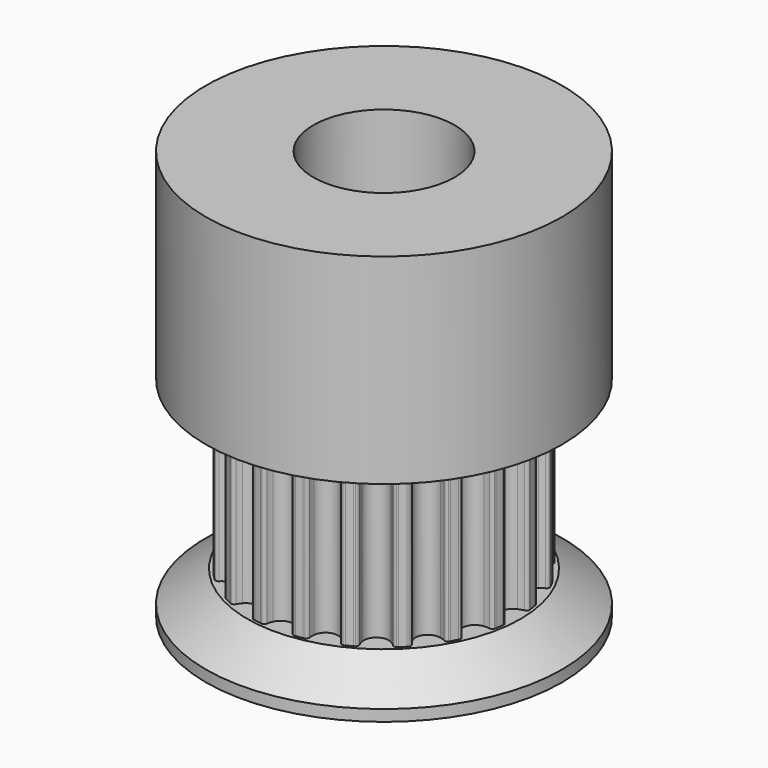
from build123d import *

# Parameters (mm, degrees)
F1_DEPTH  = 7.5
F2_R      = 8
F3_DEPTH  = 9
F4_R      = 8
F5_DEPTH  = 1.5
F6_R      = 2.5
F7_DEPTH  = 18.001
F8_R      = 1.5
F9_DEPTH  = 8.001
F10_R     = 3.175
F11_DEPTH = 25.4
F12_R     = 8
F13_DEPTH = 1.5


with BuildPart() as f1:
    # F0 (on Top) → F1 (new body)
    with BuildSketch(Plane.XY):
        with BuildLine():
            ThreePointArc((-0.5137469529, -5.5950260293), (0, -5.25), (0.5137469529, -5.5950260293))
            ThreePointArc((0.5137469529, -5.5950260293), (0.5592692601, -5.7125893356), (0.5896381917, -5.8349459432))
            ThreePointArc((0.5896381917, -5.8349459432), (0.634011817, -5.9169199806), (0.718236871, -5.9568562008))
            ThreePointArc((0.718236871, -5.9568562008), (0.7555100891, -5.952243653), (0.7927537045, -5.9473978818))
            ThreePointArc((0.7927537045, -5.9473978818), (0.9386067902, -5.9261300436), (1.0838934413, -5.9012858775))
            ThreePointArc((1.0838934413, -5.9012858775), (1.1208116501, -5.8943855698), (1.1576859427, -5.8872543055))
            ThreePointArc((1.1576859427, -5.8872543055), (1.2254477584, -5.82324573), (1.2423182132, -5.7315715833))
            ThreePointArc((1.2423182132, -5.7315715833), (1.2333905124, -5.6058190183), (1.2403557397, -5.4799425032))
            ThreePointArc((1.2403557397, -5.4799425032), (1.6223392205, -4.9930467105), (2.2175605143, -5.1624294247))
            ThreePointArc((2.2175605143, -5.1624294247), (2.2971838607, -5.2601716067), (2.3638767022, -5.3671551397))
            ThreePointArc((2.3638767022, -5.3671551397), (2.4314098983, -5.4314048778), (2.5238536555, -5.4433595073))
            ThreePointArc((2.5238536555, -5.4433595073), (2.5578772368, -5.4274546558), (2.5918005942, -5.4113371434))
            ThreePointArc((2.5918005942, -5.4113371434), (2.7239429984, -5.3460391451), (2.8544415451, -5.2775148949))
            ThreePointArc((2.8544415451, -5.2775148949), (2.8874205358, -5.2595439583), (2.9202863902, -5.2413669399))
            ThreePointArc((2.9202863902, -5.2413669399), (2.964951969, -5.1595516144), (2.9526678557, -5.0671510626))
            ThreePointArc((2.9526678557, -5.0671510626), (2.905317428, -4.9503120775), (2.8730437705, -4.828444024))
            ThreePointArc((2.8730437705, -4.828444024), (3.0858725745, -4.2473392205), (3.7043038019, -4.2244982593))
            ThreePointArc((3.7043038019, -4.2244982593), (3.8102340997, -4.2928516312), (3.906722491, -4.373989796))
            ThreePointArc((3.906722491, -4.373989796), (3.9908046381, -4.4142260228), (4.0824180595, -4.3970288591))
            ThreePointArc((4.0824180595, -4.3970288591), (4.1098615388, -4.3713885816), (4.1371439837, -4.3455770225))
            ThreePointArc((4.1371439837, -4.3455770225), (4.2426406871, -4.2426406871), (4.3455770225, -4.1371439837))
            ThreePointArc((4.3455770225, -4.1371439837), (4.3713885816, -4.1098615388), (4.3970288591, -4.0824180595))
            ThreePointArc((4.3970288591, -4.0824180595), (4.4142260228, -3.9908046381), (4.373989796, -3.906722491))
            ThreePointArc((4.373989796, -3.906722491), (4.2928516312, -3.8102340997), (4.2244982593, -3.7043038019))
            ThreePointArc((4.2244982593, -3.7043038019), (4.2473392205, -3.0858725745), (4.828444024, -2.8730437705))
            ThreePointArc((4.828444024, -2.8730437705), (4.9503120775, -2.905317428), (5.0671510626, -2.9526678557))
            ThreePointArc((5.0671510626, -2.9526678557), (5.1595516144, -2.964951969), (5.2413669399, -2.9202863902))
            ThreePointArc((5.2413669399, -2.9202863902), (5.2595439583, -2.8874205358), (5.2775148949, -2.8544415451))
            ThreePointArc((5.2775148949, -2.8544415451), (5.3460391451, -2.7239429984), (5.4113371434, -2.5918005942))
            ThreePointArc((5.4113371434, -2.5918005942), (5.4432427829, -2.4673716464), (5.3671551397, -2.3638767022))
            ThreePointArc((5.3671551397, -2.3638767022), (5.2601716067, -2.2971838607), (5.1624294247, -2.2175605143))
            ThreePointArc((5.1624294247, -2.2175605143), (4.9930467105, -1.6223392205), (5.4799425032, -1.2403557397))
            ThreePointArc((5.4799425032, -1.2403557397), (5.6058190183, -1.2333905124), (5.7315715833, -1.2423182132))
            ThreePointArc((5.7315715833, -1.2423182132), (5.82324573, -1.2254477584), (5.8872543055, -1.1576859427))
            ThreePointArc((5.8872543055, -1.1576859427), (5.8943855698, -1.1208116501), (5.9012858775, -1.0838934413))
            ThreePointArc((5.9012858775, -1.0838934413), (5.9261300436, -0.9386067902), (5.9473978818, -0.7927537045))
            ThreePointArc((5.9473978818, -0.7927537045), (5.952243653, -0.7555100891), (5.9568562008, -0.718236871))
            ThreePointArc((5.9568562008, -0.718236871), (5.9169199806, -0.634011817), (5.8349459432, -0.5896381917))
            ThreePointArc((5.8349459432, -0.5896381917), (5.7125893356, -0.5592692601), (5.5950260293, -0.5137469529))
            ThreePointArc((5.5950260293, -0.5137469529), (5.25, 0), (5.5950260293, 0.5137469529))
            ThreePointArc((5.5950260293, 0.5137469529), (5.7125893356, 0.5592692601), (5.8349459432, 0.5896381917))
            ThreePointArc((5.8349459432, 0.5896381917), (5.9169199806, 0.634011817), (5.9568562008, 0.718236871))
            ThreePointArc((5.9568562008, 0.718236871), (5.952243653, 0.7555100891), (5.9473978818, 0.7927537045))
            ThreePointArc((5.9473978818, 0.7927537045), (5.9261300436, 0.9386067902), (5.9012858775, 1.0838934413))
            ThreePointArc((5.9012858775, 1.0838934413), (5.8943855698, 1.1208116501), (5.8872543055, 1.1576859427))
            ThreePointArc((5.8872543055, 1.1576859427), (5.82324573, 1.2254477584), (5.7315715833, 1.2423182132))
            ThreePointArc((5.7315715833, 1.2423182132), (5.6058190183, 1.2333905124), (5.4799425032, 1.2403557397))
            ThreePointArc((5.4799425032, 1.2403557397), (4.9930467105, 1.6223392205), (5.1624294247, 2.2175605143))
            ThreePointArc((5.1624294247, 2.2175605143), (5.2601716067, 2.2971838607), (5.3671551397, 2.3638767022))
            ThreePointArc((5.3671551397, 2.3638767022), (5.4314048778, 2.4314098983), (5.4433595073, 2.5238536555))
            ThreePointArc((5.4433595073, 2.5238536555), (5.4274546558, 2.5578772368), (5.4113371434, 2.5918005942))
            ThreePointArc((5.4113371434, 2.5918005942), (5.3460391451, 2.7239429984), (5.2775148949, 2.8544415451))
            ThreePointArc((5.2775148949, 2.8544415451), (5.2595439583, 2.8874205358), (5.2413669399, 2.9202863902))
            ThreePointArc((5.2413669399, 2.9202863902), (5.1595516144, 2.964951969), (5.0671510626, 2.9526678557))
            ThreePointArc((5.0671510626, 2.9526678557), (4.9503120775, 2.905317428), (4.828444024, 2.8730437705))
            ThreePointArc((4.828444024, 2.8730437705), (4.2473392205, 3.0858725745), (4.2244982593, 3.7043038019))
            ThreePointArc((4.2244982593, 3.7043038019), (4.2928516312, 3.8102340997), (4.373989796, 3.906722491))
            ThreePointArc((4.373989796, 3.906722491), (4.4142260228, 3.9908046381), (4.3970288591, 4.0824180595))
            ThreePointArc((4.3970288591, 4.0824180595), (4.3713885816, 4.1098615388), (4.3455770225, 4.1371439837))
            ThreePointArc((4.3455770225, 4.1371439837), (4.2426406871, 4.2426406871), (4.1371439837, 4.3455770225))
            ThreePointArc((4.1371439837, 4.3455770225), (4.1098615388, 4.3713885816), (4.0824180595, 4.3970288591))
            ThreePointArc((4.0824180595, 4.3970288591), (3.9908046381, 4.4142260228), (3.906722491, 4.373989796))
            ThreePointArc((3.906722491, 4.373989796), (3.8102340997, 4.2928516312), (3.7043038019, 4.2244982593))
            ThreePointArc((3.7043038019, 4.2244982593), (3.0858725745, 4.2473392205), (2.8730437705, 4.828444024))
            ThreePointArc((2.8730437705, 4.828444024), (2.905317428, 4.9503120775), (2.9526678557, 5.0671510626))
            ThreePointArc((2.9526678557, 5.0671510626), (2.964951969, 5.1595516144), (2.9202863902, 5.2413669399))
            ThreePointArc((2.9202863902, 5.2413669399), (2.8874205358, 5.2595439583), (2.8544415451, 5.2775148949))
            ThreePointArc((2.8544415451, 5.2775148949), (2.7239429984, 5.3460391451), (2.5918005942, 5.4113371434))
            ThreePointArc((2.5918005942, 5.4113371434), (2.5578772368, 5.4274546558), (2.5238536555, 5.4433595073))
            ThreePointArc((2.5238536555, 5.4433595073), (2.4314098983, 5.4314048778), (2.3638767022, 5.3671551397))
            ThreePointArc((2.3638767022, 5.3671551397), (2.2971838607, 5.2601716067), (2.2175605143, 5.1624294247))
            ThreePointArc((2.2175605143, 5.1624294247), (1.6223392205, 4.9930467105), (1.2403557397, 5.4799425032))
            ThreePointArc((1.2403557397, 5.4799425032), (1.2333905124, 5.6058190183), (1.2423182132, 5.7315715833))
            ThreePointArc((1.2423182132, 5.7315715833), (1.2254477584, 5.82324573), (1.1576859427, 5.8872543055))
            ThreePointArc((1.1576859427, 5.8872543055), (1.1208116501, 5.8943855698), (1.0838934413, 5.9012858775))
            ThreePointArc((1.0838934413, 5.9012858775), (0.9386067902, 5.9261300436), (0.7927537045, 5.9473978818))
            ThreePointArc((0.7927537045, 5.9473978818), (0.7555100891, 5.952243653), (0.718236871, 5.9568562008))
            ThreePointArc((0.718236871, 5.9568562008), (0.634011817, 5.9169199806), (0.5896381917, 5.8349459432))
            ThreePointArc((0.5896381917, 5.8349459432), (0.5592692601, 5.7125893356), (0.5137469529, 5.5950260293))
            ThreePointArc((0.5137469529, 5.5950260293), (0, 5.25), (-0.5137469529, 5.5950260293))
            ThreePointArc((-0.5137469529, 5.5950260293), (-0.5592692601, 5.7125893356), (-0.5896381917, 5.8349459432))
            ThreePointArc((-0.5896381917, 5.8349459432), (-0.634011817, 5.9169199806), (-0.718236871, 5.9568562008))
            ThreePointArc((-0.718236871, 5.9568562008), (-0.7555100891, 5.952243653), (-0.7927537045, 5.9473978818))
            ThreePointArc((-0.7927537045, 5.9473978818), (-0.9386067902, 5.9261300436), (-1.0838934413, 5.9012858775))
            ThreePointArc((-1.0838934413, 5.9012858775), (-1.1208116501, 5.8943855698), (-1.1576859427, 5.8872543055))
            ThreePointArc((-1.1576859427, 5.8872543055), (-1.2254477584, 5.82324573), (-1.2423182132, 5.7315715833))
            ThreePointArc((-1.2423182132, 5.7315715833), (-1.2333905124, 5.6058190183), (-1.2403557397, 5.4799425032))
            ThreePointArc((-1.2403557397, 5.4799425032), (-1.6223392205, 4.9930467105), (-2.2175605143, 5.1624294247))
            ThreePointArc((-2.2175605143, 5.1624294247), (-2.2971838607, 5.2601716067), (-2.3638767022, 5.3671551397))
            ThreePointArc((-2.3638767022, 5.3671551397), (-2.4314098983, 5.4314048778), (-2.5238536555, 5.4433595073))
            ThreePointArc((-2.5238536555, 5.4433595073), (-2.5578772368, 5.4274546558), (-2.5918005942, 5.4113371434))
            ThreePointArc((-2.5918005942, 5.4113371434), (-2.7239429984, 5.3460391451), (-2.8544415451, 5.2775148949))
            ThreePointArc((-2.8544415451, 5.2775148949), (-2.8874205358, 5.2595439583), (-2.9202863902, 5.2413669399))
            ThreePointArc((-2.9202863902, 5.2413669399), (-2.964951969, 5.1595516144), (-2.9526678557, 5.0671510626))
            ThreePointArc((-2.9526678557, 5.0671510626), (-2.905317428, 4.9503120775), (-2.8730437705, 4.828444024))
            ThreePointArc((-2.8730437705, 4.828444024), (-3.0858725745, 4.2473392205), (-3.7043038019, 4.2244982593))
            ThreePointArc((-3.7043038019, 4.2244982593), (-3.8102340997, 4.2928516312), (-3.906722491, 4.373989796))
            ThreePointArc((-3.906722491, 4.373989796), (-3.9908046381, 4.4142260228), (-4.0824180595, 4.3970288591))
            ThreePointArc((-4.0824180595, 4.3970288591), (-4.1098615388, 4.3713885816), (-4.1371439837, 4.3455770225))
            ThreePointArc((-4.1371439837, 4.3455770225), (-4.2426406871, 4.2426406871), (-4.3455770225, 4.1371439837))
            ThreePointArc((-4.3455770225, 4.1371439837), (-4.3713885816, 4.1098615388), (-4.3970288591, 4.0824180595))
            ThreePointArc((-4.3970288591, 4.0824180595), (-4.4142260228, 3.9908046381), (-4.373989796, 3.906722491))
            ThreePointArc((-4.373989796, 3.906722491), (-4.2928516312, 3.8102340997), (-4.2244982593, 3.7043038019))
            ThreePointArc((-4.2244982593, 3.7043038019), (-4.2473392205, 3.0858725745), (-4.828444024, 2.8730437705))
            ThreePointArc((-4.828444024, 2.8730437705), (-4.9503120775, 2.905317428), (-5.0671510626, 2.9526678557))
            ThreePointArc((-5.0671510626, 2.9526678557), (-5.1595516144, 2.964951969), (-5.2413669399, 2.9202863902))
            ThreePointArc((-5.2413669399, 2.9202863902), (-5.2595439583, 2.8874205358), (-5.2775148949, 2.8544415451))
            ThreePointArc((-5.2775148949, 2.8544415451), (-5.3460391451, 2.7239429984), (-5.4113371434, 2.5918005942))
            ThreePointArc((-5.4113371434, 2.5918005942), (-5.4274546558, 2.5578772368), (-5.4433595073, 2.5238536555))
            ThreePointArc((-5.4433595073, 2.5238536555), (-5.4314048778, 2.4314098983), (-5.3671551397, 2.3638767022))
            ThreePointArc((-5.3671551397, 2.3638767022), (-5.2601716067, 2.2971838607), (-5.1624294247, 2.2175605143))
            ThreePointArc((-5.1624294247, 2.2175605143), (-4.9930467105, 1.6223392205), (-5.4799425032, 1.2403557397))
            ThreePointArc((-5.4799425032, 1.2403557397), (-5.6058190183, 1.2333905124), (-5.7315715833, 1.2423182132))
            ThreePointArc((-5.7315715833, 1.2423182132), (-5.82324573, 1.2254477584), (-5.8872543055, 1.1576859427))
            ThreePointArc((-5.8872543055, 1.1576859427), (-5.8943855698, 1.1208116501), (-5.9012858775, 1.0838934413))
            ThreePointArc((-5.9012858775, 1.0838934413), (-5.9261300436, 0.9386067902), (-5.9473978818, 0.7927537045))
            ThreePointArc((-5.9473978818, 0.7927537045), (-5.952243653, 0.7555100891), (-5.9568562008, 0.718236871))
            ThreePointArc((-5.9568562008, 0.718236871), (-5.9169199806, 0.634011817), (-5.8349459432, 0.5896381917))
            ThreePointArc((-5.8349459432, 0.5896381917), (-5.7125893356, 0.5592692601), (-5.5950260293, 0.5137469529))
            ThreePointArc((-5.5950260293, 0.5137469529), (-5.25, 0), (-5.5950260293, -0.5137469529))
            ThreePointArc((-5.5950260293, -0.5137469529), (-5.7125893356, -0.5592692601), (-5.8349459432, -0.5896381917))
            ThreePointArc((-5.8349459432, -0.5896381917), (-5.9169199806, -0.634011817), (-5.9568562008, -0.718236871))
            ThreePointArc((-5.9568562008, -0.718236871), (-5.952243653, -0.7555100891), (-5.9473978818, -0.7927537045))
            ThreePointArc((-5.9473978818, -0.7927537045), (-5.9261300436, -0.9386067902), (-5.9012858775, -1.0838934413))
            ThreePointArc((-5.9012858775, -1.0838934413), (-5.8943855698, -1.1208116501), (-5.8872543055, -1.1576859427))
            ThreePointArc((-5.8872543055, -1.1576859427), (-5.82324573, -1.2254477584), (-5.7315715833, -1.2423182132))
            ThreePointArc((-5.7315715833, -1.2423182132), (-5.6058190183, -1.2333905124), (-5.4799425032, -1.2403557397))
            ThreePointArc((-5.4799425032, -1.2403557397), (-4.9930467105, -1.6223392205), (-5.1624294247, -2.2175605143))
            ThreePointArc((-5.1624294247, -2.2175605143), (-5.2601716067, -2.2971838607), (-5.3671551397, -2.3638767022))
            ThreePointArc((-5.3671551397, -2.3638767022), (-5.4314048778, -2.4314098983), (-5.4433595073, -2.5238536555))
            ThreePointArc((-5.4433595073, -2.5238536555), (-5.4274546558, -2.5578772368), (-5.4113371434, -2.5918005942))
            ThreePointArc((-5.4113371434, -2.5918005942), (-5.3460391451, -2.7239429984), (-5.2775148949, -2.8544415451))
            ThreePointArc((-5.2775148949, -2.8544415451), (-5.2595439583, -2.8874205358), (-5.2413669399, -2.9202863902))
            ThreePointArc((-5.2413669399, -2.9202863902), (-5.1595516144, -2.964951969), (-5.0671510626, -2.9526678557))
            ThreePointArc((-5.0671510626, -2.9526678557), (-4.9503120775, -2.905317428), (-4.828444024, -2.8730437705))
            ThreePointArc((-4.828444024, -2.8730437705), (-4.2473392205, -3.0858725745), (-4.2244982593, -3.7043038019))
            ThreePointArc((-4.2244982593, -3.7043038019), (-4.2928516312, -3.8102340997), (-4.373989796, -3.906722491))
            ThreePointArc((-4.373989796, -3.906722491), (-4.4142260228, -3.9908046381), (-4.3970288591, -4.0824180595))
            ThreePointArc((-4.3970288591, -4.0824180595), (-4.3713885816, -4.1098615388), (-4.3455770225, -4.1371439837))
            ThreePointArc((-4.3455770225, -4.1371439837), (-4.2426406871, -4.2426406871), (-4.1371439837, -4.3455770225))
            ThreePointArc((-4.1371439837, -4.3455770225), (-4.1098615388, -4.3713885816), (-4.0824180595, -4.3970288591))
            ThreePointArc((-4.0824180595, -4.3970288591), (-3.9908046381, -4.4142260228), (-3.906722491, -4.373989796))
            ThreePointArc((-3.906722491, -4.373989796), (-3.8102340997, -4.2928516312), (-3.7043038019, -4.2244982593))
            ThreePointArc((-3.7043038019, -4.2244982593), (-3.0858725745, -4.2473392205), (-2.8730437705, -4.828444024))
            ThreePointArc((-2.8730437705, -4.828444024), (-2.905317428, -4.9503120775), (-2.9526678557, -5.0671510626))
            ThreePointArc((-2.9526678557, -5.0671510626), (-2.964951969, -5.1595516144), (-2.9202863902, -5.2413669399))
            ThreePointArc((-2.9202863902, -5.2413669399), (-2.8874205358, -5.2595439583), (-2.8544415451, -5.2775148949))
            ThreePointArc((-2.8544415451, -5.2775148949), (-2.7239429984, -5.3460391451), (-2.5918005942, -5.4113371434))
            ThreePointArc((-2.5918005942, -5.4113371434), (-2.5578772368, -5.4274546558), (-2.5238536555, -5.4433595073))
            ThreePointArc((-2.5238536555, -5.4433595073), (-2.4314098983, -5.4314048778), (-2.3638767022, -5.3671551397))
            ThreePointArc((-2.3638767022, -5.3671551397), (-2.2971838607, -5.2601716067), (-2.2175605143, -5.1624294247))
            ThreePointArc((-2.2175605143, -5.1624294247), (-1.6223392205, -4.9930467105), (-1.2403557397, -5.4799425032))
            ThreePointArc((-1.2403557397, -5.4799425032), (-1.2333905124, -5.6058190183), (-1.2423182132, -5.7315715833))
            ThreePointArc((-1.2423182132, -5.7315715833), (-1.2254477584, -5.82324573), (-1.1576859427, -5.8872543055))
            ThreePointArc((-1.1576859427, -5.8872543055), (-1.1208116501, -5.8943855698), (-1.0838934413, -5.9012858775))
            ThreePointArc((-1.0838934413, -5.9012858775), (-0.9386067902, -5.9261300436), (-0.7927537045, -5.9473978818))
            ThreePointArc((-0.7927537045, -5.9473978818), (-0.7555100891, -5.952243653), (-0.718236871, -5.9568562008))
            ThreePointArc((-0.718236871, -5.9568562008), (-0.634011817, -5.9169199806), (-0.5896381917, -5.8349459432))
            ThreePointArc((-0.5896381917, -5.8349459432), (-0.5592692601, -5.7125893356), (-0.5137469529, -5.5950260293))
        make_face()
    extrude(amount=F1_DEPTH)

    # F2 (on face) → F3 (join)
    with BuildSketch(Plane.XY.offset(7.5)):
        Circle(F2_R)
    extrude(amount=F3_DEPTH)

    # F4 (on face) → F5 (join)
    with BuildSketch(Plane(origin=(0, 0, 0), x_dir=(1, 0, 0), z_dir=(0, 0, -1))):
        Circle(F4_R)
    extrude(amount=F5_DEPTH)

    # F6 (on face) → F7 (cut, through all)
    with BuildSketch(Plane(origin=(0, 0, -1.5), x_dir=(1, 0, 0), z_dir=(0, 0, -1))):
        Circle(F6_R)
    extrude(amount=-F7_DEPTH, mode=Mode.SUBTRACT)

    # F8 (on Right) → F9 (cut, through all)
    with BuildSketch(Plane.YZ):
        with Locations((0, 12)):
            Circle(F8_R)
    extrude(amount=-F9_DEPTH, mode=Mode.SUBTRACT)

    # F10 (on Top) → F11 (cut, symmetric)
    with BuildSketch(Plane.XY):
        Circle(F10_R)
    extrude(amount=F11_DEPTH, both=True, mode=Mode.SUBTRACT)

    # F12 (on face) → F13 (cut, through all)
    with BuildSketch(Plane(origin=(0, 0, -1.5), x_dir=(1, 0, 0), z_dir=(0, 0, -1))):
        Circle(F12_R)
    extrude(amount=-F13_DEPTH, mode=Mode.SUBTRACT)

    # F14 (on Front) → F15 (revolve)
    with BuildSketch(Plane.XZ):
        Polygon((6.141891703, 0), (3.175, 0), (3.175, -1.905), (8.001, -1.905), (8.001, -1.397), align=None)
    revolve(axis=Axis((0, 0, -1.2805719161), (0, 0, -1)))


solid = f1.part
